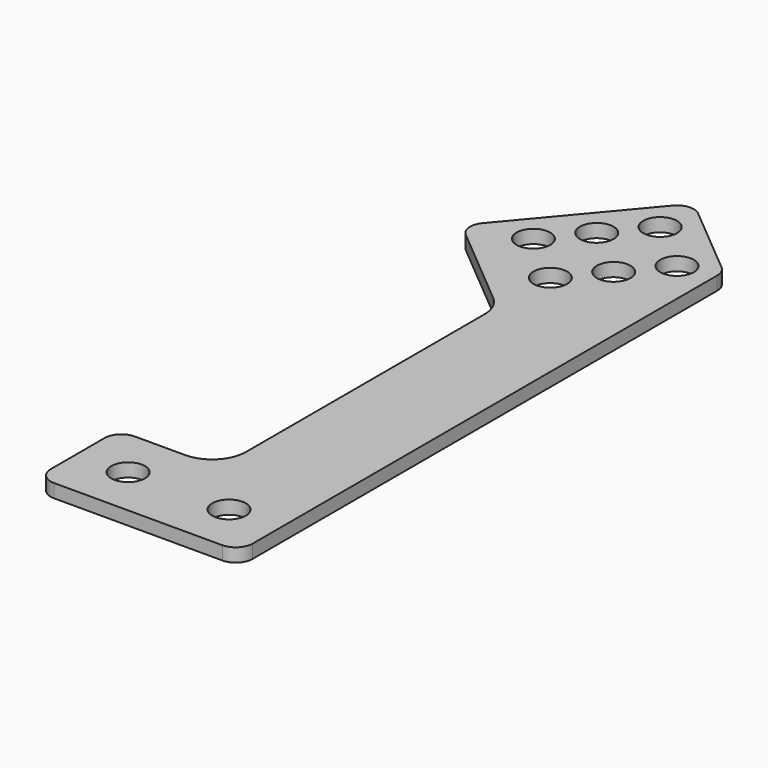
from build123d import *

# Parameters (mm, degrees)
F0_R     = 5
F1_DEPTH = 4
F2_R     = 5
F3_R     = 10


with BuildPart() as f1:
    # F0 (on Top) → F1 (new body)
    with BuildSketch(Plane.XY):
        Polygon((-60, 0), (0, 0), (0, 180), (-26.811556, 202.497566), (-62.164874, 160.365122), (-30, 133.375588), (-30, 30), (-60, 30), align=None)
        with Locations((-45, 15)):
            Circle(F0_R, mode=Mode.SUBTRACT)
        with Locations((-15, 15)):
            Circle(F0_R, mode=Mode.SUBTRACT)
        with Locations((-44.862615, 165.427913)):
            Circle(F0_R, mode=Mode.SUBTRACT)
        with Locations((-35.220801, 176.918579)):
            Circle(F0_R, mode=Mode.SUBTRACT)
        with Locations((-29.541727, 152.57216)):
            Circle(F0_R, mode=Mode.SUBTRACT)
        with Locations((-19.899912, 164.062827)):
            Circle(F0_R, mode=Mode.SUBTRACT)
        with Locations((-25.578987, 188.409246)):
            Circle(F0_R, mode=Mode.SUBTRACT)
        with Locations((-10.258098, 175.553494)):
            Circle(F0_R, mode=Mode.SUBTRACT)
    extrude(amount=F1_DEPTH)

    # F2
    f2_edges = [f1.edges().sort_by_distance(p)[0] for p in [
        (-62.164874, 160.365122, 2),
        (-26.811556, 202.497566, 2),
        (0, 180, 2),
        (0, 0, 2),
        (-60, 0, 2),
        (-60, 30, 2),
    ]]
    fillet(f2_edges, radius=F2_R)

    # F3
    f3_edges = [f1.edges().sort_by_distance(p)[0] for p in [
        (-30, 30, 2),
        (-30, 133.375588, 2),
    ]]
    fillet(f3_edges, radius=F3_R)


solid = f1.part
